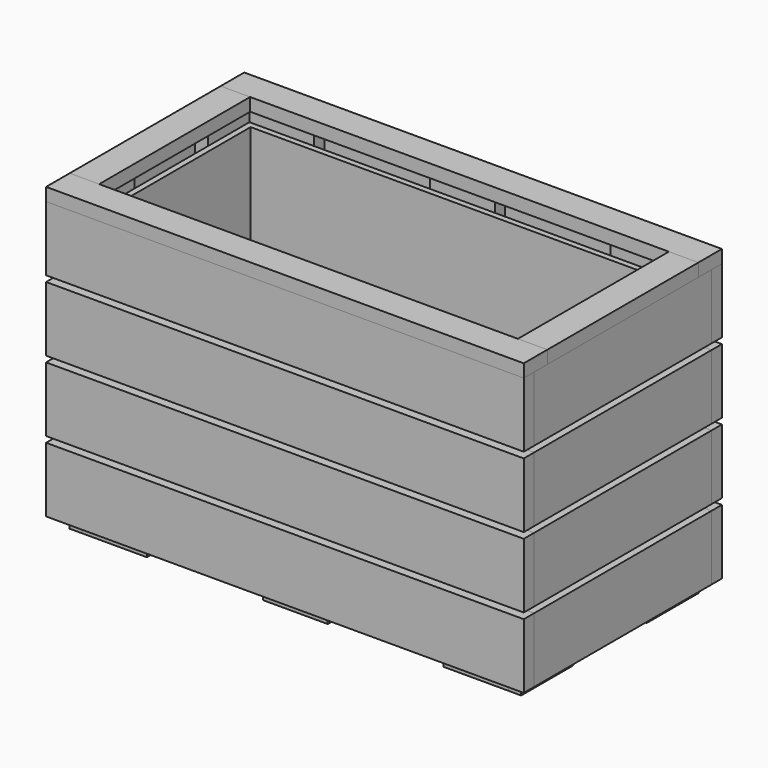
from build123d import *

# Parameters (mm, degrees)
F2_W           = 2.2
F2_H           = 37.6
F3_DEPTH       = 47
F1_W           = 81
F1_H           = 2.2
F4_W           = 114.100013802
F4_H           = 1
F4_W_2         = 121.7789687216
F4_W_3         = 120.9573857486
F5_DEPTH       = 30
F6_W           = 2.2
F6_H           = 11
F7_DEPTH       = 47
F7_DEPTH_BACK  = 2
F8_W           = 11
F8_H           = 2.2
F9_DEPTH       = 47
F9_DEPTH_BACK  = 2
F10_W          = 58.6
F10_H          = 6.8
F11_DEPTH      = 3.3
F12_W          = 6.8
F12_H          = 19.6
F13_DEPTH      = 3.3
F14_W          = 1
F14_H          = 31.2
F15_DEPTH      = 45
F16_W          = 70.2
F16_H          = 31.2
F17_DEPTH      = 1
F18_W          = 81
F18_H          = 5
F19_DEPTH      = 2.2
F20_W          = 5
F20_H          = 32
F21_DEPTH      = 2.2
F22_W          = 70.2
F22_H          = 31.2
F23_DEPTH      = 1
F24_W          = 11
F24_H          = 2.2
F25_DEPTH      = 47
F25_DEPTH_BACK = 2


with BuildPart() as f3:
    # F2 (on Top) → F3 (new body)
    with BuildSketch(Plane.XY):
        with Locations((-39.4, 0)):
            Rectangle(F2_W, F2_H)
    extrude(amount=F3_DEPTH)


with BuildPart() as f3b:
    # F2 (on Top) → F3, piece 2 (new body)
    with BuildSketch(Plane.XY):
        with Locations((39.4, 0)):
            Rectangle(F2_W, F2_H)
    extrude(amount=F3_DEPTH)


with BuildPart() as f3c:
    # F1 (on Top) → F3, piece 3 (new body)
    with BuildSketch(Plane.XY):
        with Locations((0, 19.9)):
            Rectangle(F1_W, F1_H)
    extrude(amount=F3_DEPTH)


with BuildPart() as f3d:
    # F1 (on Top) → F3, piece 4 (new body)
    with BuildSketch(Plane.XY):
        with Locations((0, -19.9)):
            Rectangle(F1_W, F1_H)
    extrude(amount=F3_DEPTH)


with BuildPart() as f5_tool:
    # F4 (on Front) → F5 (new body, symmetric)
    with BuildSketch(Plane.XZ):
        with Locations((2.0889788866, 11.5)):
            Rectangle(F4_W, F4_H)
        with Locations((0.0301543623, 23.5)):
            Rectangle(F4_W_2, F4_H)
        with Locations((-1.0184142739, 35.5)):
            Rectangle(F4_W_3, F4_H)
    extrude(amount=F5_DEPTH, both=True)


with BuildPart() as f3_1:
    add(f3.part)

    # F5: cut by f5_tool
    add(f5_tool.part, mode=Mode.SUBTRACT)


with BuildPart() as f3b_1:
    add(f3b.part)

    # F5: cut by f5_tool
    add(f5_tool.part, mode=Mode.SUBTRACT)


with BuildPart() as f3c_1:
    add(f3c.part)

    # F5: cut by f5_tool
    add(f5_tool.part, mode=Mode.SUBTRACT)


with BuildPart() as f3d_1:
    add(f3d.part)

    # F5: cut by f5_tool
    add(f5_tool.part, mode=Mode.SUBTRACT)


with BuildPart() as f7:
    # F6 (on Top) → F7 (new body, two sides)
    with BuildSketch(Plane.XY) as f7_sk:
        with Locations((-37.2, 13.3)):
            Rectangle(F6_W, F6_H)
    extrude(amount=F7_DEPTH)
    extrude(f7_sk.sketch, amount=-F7_DEPTH_BACK)


with BuildPart() as f7b:
    # F6 (on Top) → F7, piece 2 (new body, two sides)
    with BuildSketch(Plane.XY) as f7_2_sk:
        with Locations((-37.2, -13.3)):
            Rectangle(F6_W, F6_H)
    extrude(amount=F7_DEPTH)
    extrude(f7_2_sk.sketch, amount=-F7_DEPTH_BACK)


with BuildPart() as f7c:
    # F6 (on Top) → F7, piece 3 (new body, two sides)
    with BuildSketch(Plane.XY) as f7_3_sk:
        with Locations((37.2, 13.3)):
            Rectangle(F6_W, F6_H)
    extrude(amount=F7_DEPTH)
    extrude(f7_3_sk.sketch, amount=-F7_DEPTH_BACK)


with BuildPart() as f7d:
    # F6 (on Top) → F7, piece 4 (new body, two sides)
    with BuildSketch(Plane.XY) as f7_4_sk:
        with Locations((37.2, -13.3)):
            Rectangle(F6_W, F6_H)
    extrude(amount=F7_DEPTH)
    extrude(f7_4_sk.sketch, amount=-F7_DEPTH_BACK)


with BuildPart() as f9:
    # F8 (on Top) → F9 (new body, two sides)
    with BuildSketch(Plane.XY) as f9_sk:
        with Locations((-30.6646097228, 17.7)):
            Rectangle(F8_W, F8_H)
    extrude(amount=F9_DEPTH)
    extrude(f9_sk.sketch, amount=-F9_DEPTH_BACK)


with BuildPart() as f9b:
    # F8 (on Top) → F9, piece 2 (new body, two sides)
    with BuildSketch(Plane.XY) as f9_2_sk:
        with Locations((-30.6646097228, -17.7)):
            Rectangle(F8_W, F8_H)
    extrude(amount=F9_DEPTH)
    extrude(f9_2_sk.sketch, amount=-F9_DEPTH_BACK)


with BuildPart() as f9c:
    # F8 (on Top) → F9, piece 3 (new body, two sides)
    with BuildSketch(Plane.XY) as f9_3_sk:
        with Locations((30.6646097228, 17.7)):
            Rectangle(F8_W, F8_H)
    extrude(amount=F9_DEPTH)
    extrude(f9_3_sk.sketch, amount=-F9_DEPTH_BACK)


with BuildPart() as f9d:
    # F8 (on Top) → F9, piece 4 (new body, two sides)
    with BuildSketch(Plane.XY) as f9_4_sk:
        with Locations((30.6646097228, -17.7)):
            Rectangle(F8_W, F8_H)
    extrude(amount=F9_DEPTH)
    extrude(f9_4_sk.sketch, amount=-F9_DEPTH_BACK)


with BuildPart() as f11:
    # F10 (on Top) → F11 (new body)
    with BuildSketch(Plane.XY):
        Polygon((-29.3, 16.6), (-36.1, 16.6), (-36.1, -16.6), (-29.3, -16.6), (-29.3, -9.8), (-29.3, 9.8), align=None)
        with Locations((0, 13.2)):
            Rectangle(F10_W, F10_H)
        Polygon((36.1, 16.6), (29.3, 16.6), (29.3, 9.8), (29.3, -9.8), (29.3, -16.6), (36.1, -16.6), align=None)
        with Locations((0, -13.2)):
            Rectangle(F10_W, F10_H)
    extrude(amount=F11_DEPTH)

    # F12 (on Top) → F13 (join)
    with BuildSketch(Plane.XY):
        Rectangle(F12_W, F12_H)
    extrude(amount=F13_DEPTH)


with BuildPart() as f15:
    # F14 (on Top) → F15 (new body)
    with BuildSketch(Plane.XY):
        Polygon((36.1, 16.6), (-36.1, 16.6), (-36.1, 15.6), (-35.1, 15.6), (35.1, 15.6), (36.1, 15.6), align=None)
        with Locations((-35.6, 0)):
            Rectangle(F14_W, F14_H)
        with Locations((35.6, 0)):
            Rectangle(F14_W, F14_H)
        Polygon((-35.1, -15.6), (-36.1, -15.6), (-36.1, -16.6), (36.1, -16.6), (36.1, -15.6), (35.1, -15.6), align=None)
    extrude(amount=F15_DEPTH)


with BuildPart() as f17:
    # F16 (on Top) → F17 (new body)
    with BuildSketch(Plane.XY):
        Rectangle(F16_W, F16_H)
    extrude(amount=F17_DEPTH)


with BuildPart() as f19:
    # F18 (on face) → F19 (new body)
    with BuildSketch(Plane.XY.offset(47)):
        with Locations((0, 18.5)):
            Rectangle(F18_W, F18_H)
    extrude(amount=F19_DEPTH)


with BuildPart() as f19b:
    # F18 (on face) → F19, piece 2 (new body)
    with BuildSketch(Plane.XY.offset(47)):
        with Locations((0, -18.5)):
            Rectangle(F18_W, F18_H)
    extrude(amount=F19_DEPTH)


with BuildPart() as f21:
    # F20 (on face) → F21 (new body)
    with BuildSketch(Plane.XY.offset(47)):
        with Locations((-38, 0)):
            Rectangle(F20_W, F20_H)
    extrude(amount=F21_DEPTH)


with BuildPart() as f21b:
    # F20 (on face) → F21, piece 2 (new body)
    with BuildSketch(Plane.XY.offset(47)):
        with Locations((38, 0)):
            Rectangle(F20_W, F20_H)
    extrude(amount=F21_DEPTH)


with BuildPart() as f23:
    # F22 (on face) → F23 (new body)
    with BuildSketch(Plane.XY.offset(3.3)):
        Rectangle(F22_W, F22_H)
    extrude(amount=F23_DEPTH)


with BuildPart() as f25:
    # F24 (on Top) → F25 (new body, two sides)
    with BuildSketch(Plane.XY) as f25_sk:
        with Locations((0, 17.7)):
            Rectangle(F24_W, F24_H)
    extrude(amount=F25_DEPTH)
    extrude(f25_sk.sketch, amount=-F25_DEPTH_BACK)


with BuildPart() as f25b:
    # F24 (on Top) → F25, piece 2 (new body, two sides)
    with BuildSketch(Plane.XY) as f25_2_sk:
        with Locations((0, -17.7)):
            Rectangle(F24_W, F24_H)
    extrude(amount=F25_DEPTH)
    extrude(f25_2_sk.sketch, amount=-F25_DEPTH_BACK)


solid = Compound([f3_1.part, f3b_1.part, f3c_1.part, f3d_1.part, f7.part, f7b.part, f7c.part, f7d.part, f9.part, f9b.part, f9c.part, f9d.part, f11.part, f15.part, f17.part, f19.part, f19b.part, f21.part, f21b.part, f23.part, f25.part, f25b.part])
